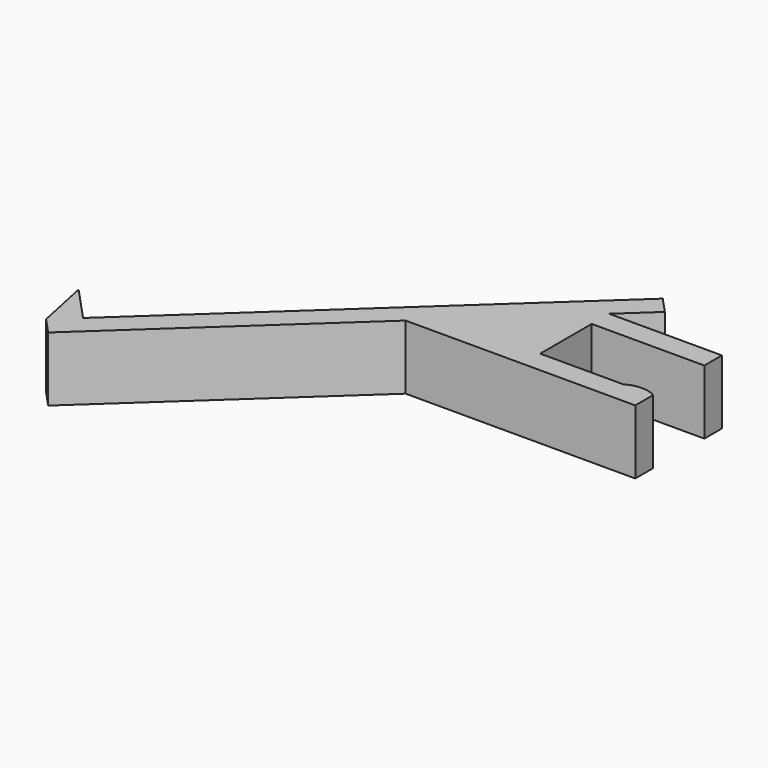
from build123d import *

# Parameters (mm, degrees)
F1_DEPTH = 20


with BuildPart() as f1:
    # F0 (on Top) → F1 (new body)
    with BuildSketch(Plane.XY):
        Polygon((38.8307844102, 9.0192841616), (38.8307844102, 15.8428145998), (3.8307844102, 15.8428145998), (13.7486025482, 25.0249247901), (8.9930404515, 30.1615218295), (-94.4733123307, -65.6296531073), (-104.6638025379, -54.6226594516), (-101.0768961056, -71.7433802426), (-96.3213340089, -76.8799772819), (-32.5122155898, -17.8042462767), (3.8307844102, -17.8042462767), (38.8307844102, -17.8042462767), (38.8307844102, -10.9807158384), (29.8073329031, -10.9807158384), (3.8307844102, -10.9807158384), (3.8307844102, 9.0192841616), align=None)
        with BuildLine():
            add(Edge.make_bspline(
                [(29.8073329031, -10.9807158384), (31.9536474804, -9.3597537572), (36.6103170918, -9.1270142859), (38.8307844102, -10.9807158384)],
                knots=[0, 0, 0, 0, 0.5411251506, 0.5411251506, 0.5411251506, 0.5411251506], degree=3))
            Line((29.8073329031, -10.9807158384), (38.8307844102, -10.9807158384))
        make_face()
    extrude(amount=F1_DEPTH)


solid = f1.part
